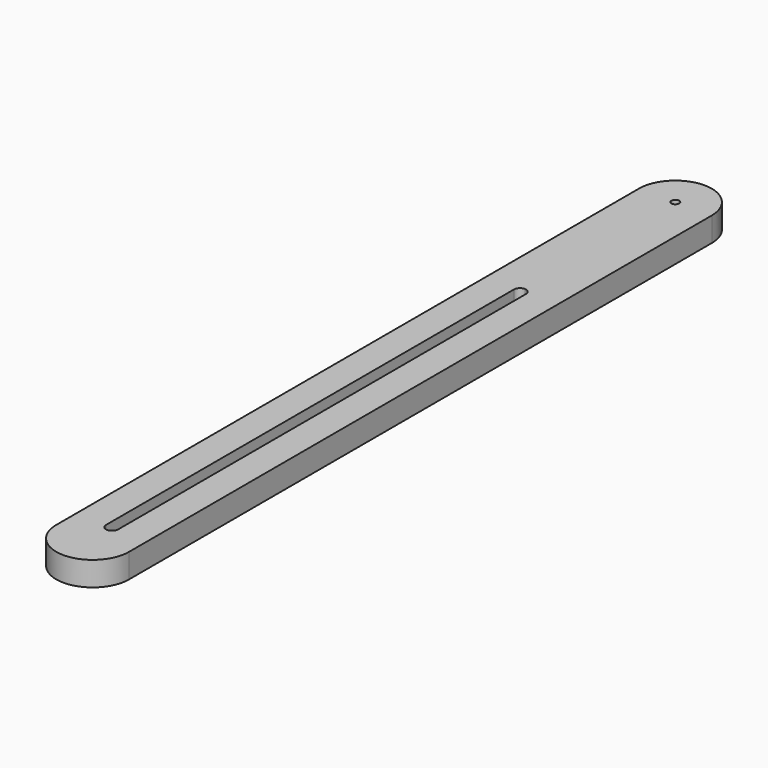
from build123d import *

# Parameters (mm, degrees)
F1_DEPTH = 10


with BuildPart() as f1:
    # F0 (on Top) → F1 (new body)
    with BuildSketch(Plane.XY):
        with BuildLine():
            ThreePointArc((1.59, 0), (-1.1243, 1.1243), (0, -1.59))
            ThreePointArc((0, -1.59), (1.1243, -1.1243), (1.59, 0))
        make_face()
        with BuildLine():
            ThreePointArc((15, 0), (0, 15), (-15, 0))
            Line((-15, 0), (-15, -300))
            ThreePointArc((-15, -300), (0, -315), (15, -300))
            Line((15, -300), (15, 0))
        make_face()
        with BuildLine():
            ThreePointArc((-2.5, -80), (-1.767767, -78.232233), (0, -77.5))
            ThreePointArc((0, -77.5), (1.767767, -78.232233), (2.5, -80))
            Line((2.5, -80), (2.5, -290))
            ThreePointArc((2.5, -290), (1.767767, -291.767767), (0, -292.5))
            ThreePointArc((0, -292.5), (-1.767767, -291.767767), (-2.5, -290))
            Line((-2.5, -290), (-2.5, -80))
        make_face(mode=Mode.SUBTRACT)
        with BuildLine():
            ThreePointArc((1.59, 0), (1.1243, -1.1243), (0, -1.59))
            ThreePointArc((0, -1.59), (-1.1243, 1.1243), (1.59, 0))
        make_face(mode=Mode.SUBTRACT)
    extrude(amount=F1_DEPTH)


solid = f1.part
